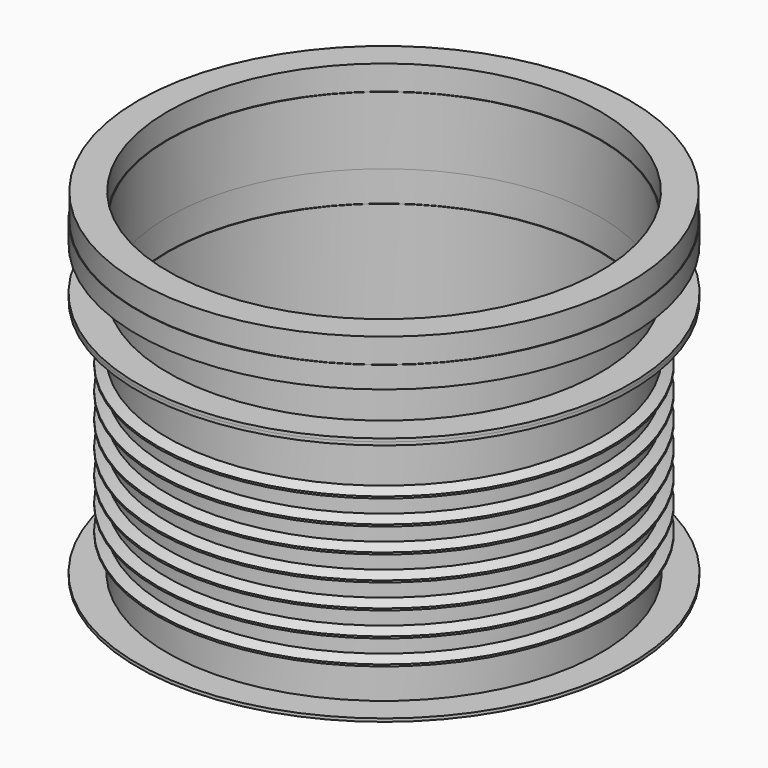
from build123d import *


with BuildPart() as f1:
    # F0 (on Front) → F1 (revolve)
    with BuildSketch(Plane.XZ):
        Polygon((-400, 330.959025), (-350, 330.959025), (-350, 680.959025), (-351, 680.959025), (-351, 642.879086), (-351, 626.596095), (-351, 602.879086), (-351, 586.596095), (-351, 562.879086), (-351, 546.596095), (-351, 522.879086), (-351, 506.596095), (-351, 482.879086), (-351, 466.596095), (-351, 442.879086), (-351, 426.596095), (-351, 402.879086), (-351, 386.596095), (-351, 335.959025), (-352, 335.959025), (-400, 335.959025), align=None)
        Polygon((-351, 642.879086), (-351, 680.959025), (-351, 690.959025), (-351, 730.959025), (-352, 730.959025), (-400, 730.959025), (-400, 725.959025), (-352, 725.959025), (-352, 665.959025), (-352, 643.516157), (-367.608935, 636.237591), (-367.608935, 633.237591), (-352, 625.959025), (-352, 603.516157), (-367.608935, 596.237591), (-367.608935, 593.237591), (-352, 585.959025), (-352, 563.516157), (-367.608935, 556.237591), (-367.608935, 553.237591), (-352, 545.959025), (-352, 523.516157), (-367.608935, 516.237591), (-367.608935, 513.237591), (-352, 505.959025), (-352, 483.516157), (-367.608935, 476.237591), (-367.608935, 473.237591), (-352, 465.959025), (-352, 443.516157), (-367.608935, 436.237591), (-367.608935, 433.237591), (-352, 425.959025), (-352, 403.516157), (-367.608935, 396.237591), (-367.608935, 393.237591), (-352, 385.959025), (-352, 335.959025), (-351, 335.959025), (-351, 386.596095), (-366.608935, 393.874661), (-366.608935, 395.600521), (-351, 402.879086), (-351, 426.596095), (-366.608935, 433.874661), (-366.608935, 435.600521), (-351, 442.879086), (-351, 466.596095), (-366.608935, 473.874661), (-366.608935, 475.600521), (-351, 482.879086), (-351, 506.596095), (-366.608935, 513.874661), (-366.608935, 515.600521), (-351, 522.879086), (-351, 546.596095), (-366.608935, 553.874661), (-366.608935, 555.600521), (-351, 562.879086), (-351, 586.596095), (-366.608935, 593.874661), (-366.608935, 595.600521), (-351, 602.879086), (-351, 626.596095), (-366.608935, 633.874661), (-366.608935, 635.600521), align=None)
    revolve(axis=Axis((0, 0, 197.206839), (0, 0, -1)))


with BuildPart() as f2:
    # F0 (on Front) → F2 (revolve)
    with BuildSketch(Plane.XZ):
        Polygon((-352, 730.959025), (-351, 730.959025), (-350, 730.959025), (-350, 840.959025), (-351, 840.959025), (-351, 880.959025), (-399, 880.959025), (-399, 840.959025), (-400, 840.959025), (-400, 805.959025), (-351, 805.959025), (-351, 735.959025), (-400, 735.959025), (-400, 730.959025), align=None)
    revolve(axis=Axis((0, 0, 197.206839), (0, 0, -1)))


solid = Compound([f1.part, f2.part])
